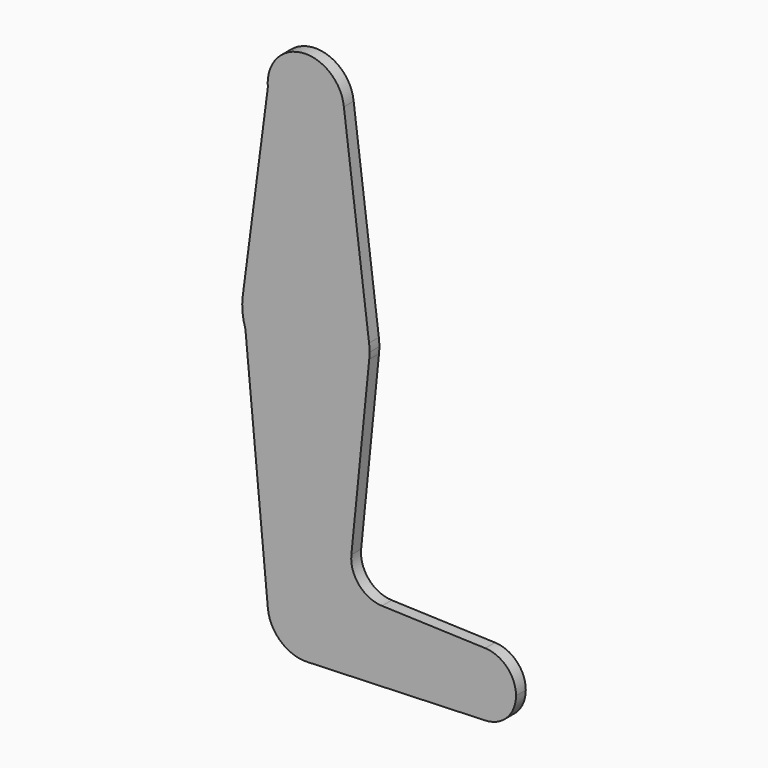
from build123d import *

# Parameters (mm, degrees)
F0_R     = 3.175
F1_DEPTH = 3.048


with BuildPart() as f1:
    # F0 (on Front) → F1 (new body)
    with BuildSketch(Plane.XZ):
        with BuildLine():
            ThreePointArc((-16.9247666998, 21.4792444312), (-22.070918521, 11.293529333), (-32.7201922638, 7.1917444312))
            Line((-32.7201922638, 7.1917444312), (-32.7201922638, -30.9082555688))
            ThreePointArc((-32.7201922638, -30.9082555688), (-25.985000173, -33.698063478), (-23.1951922638, -40.4332555688))
            Line((-23.1951922638, -40.4332555688), (3.7923077362, -40.4332555688))
            ThreePointArc((3.7923077362, -40.4332555688), (6.2182849547, -34.7212486641), (12.013289879, -32.5008193651))
            Line((12.013289879, -32.5008193651), (-13.7525922633, -31.5800218579))
            ThreePointArc((-13.7525922633, -31.5800218579), (-19.4589923665, -28.8618964189), (-21.3790056715, -22.8398737564))
            Line((-21.3790056715, -22.8398737564), (-16.9247666998, 21.4792444312))
        make_face()
        with BuildLine():
            ThreePointArc((-32.7201922638, 7.1917444312), (-42.0272444513, 10.2061688384), (-47.7997573919, 18.1046540905))
            Line((-47.7997573919, 18.1046540905), (-42.2032386499, -41.326259622))
            ThreePointArc((-42.2032386499, -41.326259622), (-39.7640366902, -34.0215568316), (-32.7201922638, -30.9082555688))
            Line((-32.7201922638, -30.9082555688), (-32.7201922638, 7.1917444312))
        make_face()
        with BuildLine():
            ThreePointArc((-23.1951922638, 73.8667444312), (-25.985000173, 67.1315523404), (-32.7201922638, 64.3417444312))
            Line((-32.7201922638, 64.3417444312), (-32.7201922638, 59.5919444312))
            Line((-32.7201922638, 59.5919444312), (-32.7201922638, 38.9417444312))
            ThreePointArc((-32.7201922638, 38.9417444312), (-22.2201134041, 34.9732119568), (-16.9697862216, 25.051772014))
            Line((-16.9697862216, 25.051772014), (-23.2470820733, 74.8596232349))
            ThreePointArc((-23.2470820733, 74.8596232349), (-23.2081735621, 74.3638613368), (-23.1951922638, 73.8667444312))
        make_face()
        with BuildLine():
            ThreePointArc((-16.9697862216, 25.051772014), (-22.2201134041, 34.9732119568), (-32.7201922638, 38.9417444312))
            Line((-32.7201922638, 38.9417444312), (-32.7201922638, 26.2417444312))
            ThreePointArc((-32.7201922638, 26.2417444312), (-30.4751282336, 25.3118084615), (-29.5451922638, 23.0667444312))
            ThreePointArc((-29.5451922638, 23.0667444312), (-30.4751282336, 20.821680401), (-32.7201922638, 19.8917444312))
            Line((-32.7201922638, 19.8917444312), (-32.7201922638, 7.1917444312))
            ThreePointArc((-32.7201922638, 7.1917444312), (-22.070918521, 11.293529333), (-16.9247666998, 21.4792444312))
            ThreePointArc((-16.9247666998, 21.4792444312), (-16.8650983532, 22.2719978772), (-16.8451922638, 23.0667444312))
            ThreePointArc((-16.8451922638, 23.0667444312), (-16.8763713718, 24.0612113938), (-16.9697862216, 25.051772014))
        make_face()
        with BuildLine():
            Line((-32.7201922638, 26.2417444312), (-32.7201922638, 38.9417444312))
            ThreePointArc((-32.7201922638, 38.9417444312), (-43.1919774337, 34.9981039664), (-48.4609965266, 25.1265274684))
            Line((-48.4609965266, 25.1265274684), (-47.7997573919, 18.1046540905))
            ThreePointArc((-47.7997573919, 18.1046540905), (-42.0272444513, 10.2061688384), (-32.7201922638, 7.1917444312))
            Line((-32.7201922638, 7.1917444312), (-32.7201922638, 19.8917444312))
            ThreePointArc((-32.7201922638, 19.8917444312), (-35.8951922638, 23.0667444312), (-32.7201922638, 26.2417444312))
        make_face()
        with BuildLine():
            Line((-32.7201922638, 59.5919444312), (-32.7201922638, 64.3417444312))
            ThreePointArc((-32.7201922638, 64.3417444312), (-39.1263785452, 66.8178862025), (-42.2018298248, 72.9589040472))
            Line((-42.2018298248, 72.9589040472), (-48.4609965266, 25.1265274684))
            ThreePointArc((-48.4609965266, 25.1265274684), (-43.1919774337, 34.9981039664), (-32.7201922638, 38.9417444312))
            Line((-32.7201922638, 38.9417444312), (-32.7201922638, 59.5919444312))
        make_face()
        with Locations((-35.8951922638, 59.5919444312)):
            Circle(F0_R, mode=Mode.SUBTRACT)
        with BuildLine():
            ThreePointArc((-42.2018298248, 72.9589040472), (-39.1263785452, 66.8178862025), (-32.7201922638, 64.3417444312))
            ThreePointArc((-32.7201922638, 64.3417444312), (-25.985000173, 67.1315523404), (-23.1951922638, 73.8667444312))
            ThreePointArc((-23.1951922638, 73.8667444312), (-23.2081735621, 74.3638613368), (-23.2470820733, 74.8596232349))
            ThreePointArc((-23.2470820733, 74.8596232349), (-31.5267060991, 83.3166764826), (-41.6489880278, 77.1837055714))
            Line((-41.6489880278, 77.1837055714), (-42.2018298248, 72.9589040472))
        make_face()
        with BuildLine():
            ThreePointArc((-29.5451922638, 73.8667444312), (-30.4751282336, 71.621680401), (-32.7201922638, 70.6917444312))
            ThreePointArc((-32.7201922638, 70.6917444312), (-34.9652562941, 76.1118084615), (-29.5451922638, 73.8667444312))
        make_face(mode=Mode.SUBTRACT)
        with BuildLine():
            ThreePointArc((-23.1951922638, -40.4332555688), (-25.8657839782, -47.0470829065), (-32.3800136924, -49.9521790131))
            Line((-32.3800136924, -49.9521790131), (12.013289879, -48.3656917724))
            ThreePointArc((12.013289879, -48.3656917724), (6.2182849547, -46.1452624735), (3.7923077362, -40.4332555688))
            Line((3.7923077362, -40.4332555688), (-23.1951922638, -40.4332555688))
        make_face()
        with BuildLine():
            ThreePointArc((3.7923077362, -40.4332555688), (6.2182849547, -46.1452624735), (12.013289879, -48.3656917724))
            ThreePointArc((12.013289879, -48.3656917724), (17.4418146409, -45.9447783502), (19.6673077362, -40.4332555688))
            ThreePointArc((19.6673077362, -40.4332555688), (17.4418146409, -34.9217327873), (12.013289879, -32.5008193651))
            ThreePointArc((12.013289879, -32.5008193651), (6.2182849547, -34.7212486641), (3.7923077362, -40.4332555688))
        make_face()
        with BuildLine():
            ThreePointArc((14.9048077362, -40.4332555688), (11.7298077362, -43.6082555688), (8.5548077362, -40.4332555688))
            ThreePointArc((8.5548077362, -40.4332555688), (11.7298077362, -37.2582555688), (14.9048077362, -40.4332555688))
        make_face(mode=Mode.SUBTRACT)
        with BuildLine():
            ThreePointArc((-32.7201922638, -30.9082555688), (-39.7640366902, -34.0215568316), (-42.2032386499, -41.326259622))
            ThreePointArc((-42.2032386499, -41.326259622), (-39.0050653178, -47.5904893707), (-32.3800136924, -49.9521790131))
            ThreePointArc((-32.3800136924, -49.9521790131), (-25.8657839782, -47.0470829065), (-23.1951922638, -40.4332555688))
            Line((-23.1951922638, -40.4332555688), (-29.5451922638, -40.4332555688))
            ThreePointArc((-29.5451922638, -40.4332555688), (-34.9652562941, -42.678319599), (-32.7201922638, -37.2582555688))
            Line((-32.7201922638, -37.2582555688), (-32.7201922638, -30.9082555688))
        make_face()
        with BuildLine():
            ThreePointArc((-23.1951922638, -40.4332555688), (-25.985000173, -33.698063478), (-32.7201922638, -30.9082555688))
            Line((-32.7201922638, -30.9082555688), (-32.7201922638, -37.2582555688))
            ThreePointArc((-32.7201922638, -37.2582555688), (-30.4751282336, -38.1881915385), (-29.5451922638, -40.4332555688))
            Line((-29.5451922638, -40.4332555688), (-23.1951922638, -40.4332555688))
        make_face()
        with Locations((-35.8951922638, 59.5919444312)):
            Circle(F0_R)
        with BuildLine():
            ThreePointArc((-29.5451922638, 73.8667444312), (-34.9652562941, 76.1118084615), (-32.7201922638, 70.6917444312))
            ThreePointArc((-32.7201922638, 70.6917444312), (-30.4751282336, 71.621680401), (-29.5451922638, 73.8667444312))
        make_face()
        with BuildLine():
            ThreePointArc((14.9048077362, -40.4332555688), (11.7298077362, -37.2582555688), (8.5548077362, -40.4332555688))
            ThreePointArc((8.5548077362, -40.4332555688), (11.7298077362, -43.6082555688), (14.9048077362, -40.4332555688))
        make_face()
        with BuildLine():
            Line((-32.7201922638, -40.4332555688), (-32.7201922638, -37.2582555688))
            ThreePointArc((-32.7201922638, -37.2582555688), (-34.9652562941, -42.678319599), (-29.5451922638, -40.4332555688))
            Line((-29.5451922638, -40.4332555688), (-32.7201922638, -40.4332555688))
        make_face()
        with BuildLine():
            ThreePointArc((-29.5451922638, 23.0667444312), (-30.4751282336, 25.3118084615), (-32.7201922638, 26.2417444312))
            Line((-32.7201922638, 26.2417444312), (-32.7201922638, 19.8917444312))
            ThreePointArc((-32.7201922638, 19.8917444312), (-30.4751282336, 20.821680401), (-29.5451922638, 23.0667444312))
        make_face()
        with BuildLine():
            Line((-32.7201922638, 19.8917444312), (-32.7201922638, 26.2417444312))
            ThreePointArc((-32.7201922638, 26.2417444312), (-35.8951922638, 23.0667444312), (-32.7201922638, 19.8917444312))
        make_face()
        with BuildLine():
            ThreePointArc((-29.5451922638, -40.4332555688), (-30.4751282336, -38.1881915385), (-32.7201922638, -37.2582555688))
            Line((-32.7201922638, -37.2582555688), (-32.7201922638, -40.4332555688))
            Line((-32.7201922638, -40.4332555688), (-29.5451922638, -40.4332555688))
        make_face()
        with BuildLine():
            Line((-47.7997573919, 18.1046540905), (-48.4609965266, 25.1265274684))
            ThreePointArc((-48.4609965266, 25.1265274684), (-48.525269574, 21.5784043426), (-47.7997573919, 18.1046540905))
        make_face()
        with BuildLine():
            ThreePointArc((-41.6489880278, 77.1837055714), (-42.1646748215, 75.1026142535), (-42.2018298248, 72.9589040472))
            Line((-42.2018298248, 72.9589040472), (-41.6489880278, 77.1837055714))
        make_face()
    extrude(amount=F1_DEPTH)


solid = f1.part
